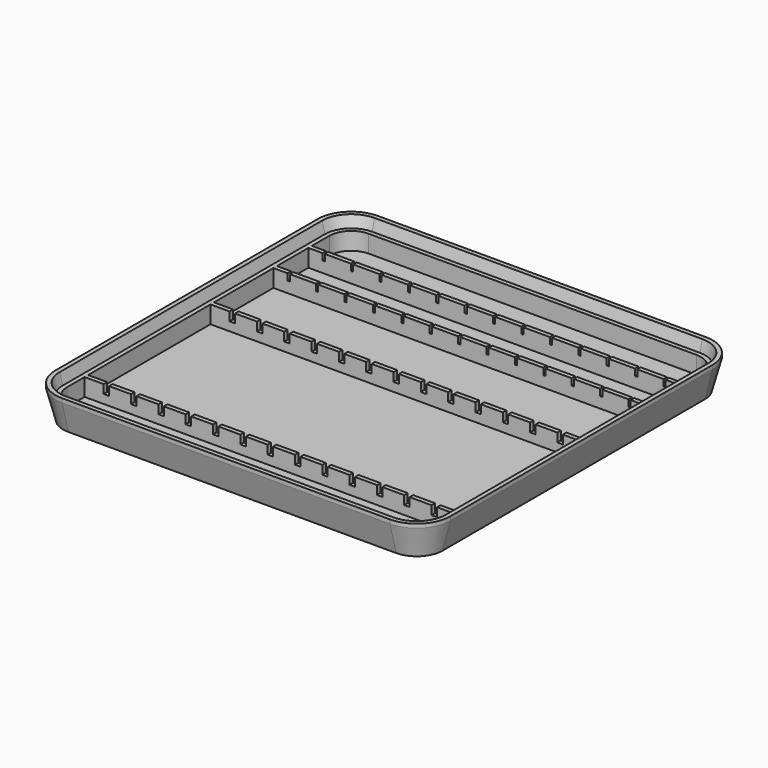
from build123d import *

# Parameters (mm, degrees)
PAD_DEPTH       = 2
SKETCH003_W     = 170
SKETCH003_H     = 2
PAD001_DEPTH    = 8
SKETCH004_W     = 2.5
SKETCH004_H     = 4
POCKET_DEPTH    = 76
SKETCH005_W     = 1
SKETCH005_H     = 3
POCKET001_DEPTH = 22


with BuildPart() as part:
    # AdditivePipe: sweep along a path in Sketch001
    with BuildLine(Plane.XY) as additivepipe_path:
        Line((-85, 75), (-85, -75))
        ThreePointArc((-85, -75), (-82.071068, -82.071068), (-75, -85))
        Line((-75, -85), (75, -85))
        ThreePointArc((75, -85), (82.071068, -82.071068), (85, -75))
        Line((85, -75), (85, 75))
        ThreePointArc((85, 75), (82.071068, 82.071068), (75, 85))
        Line((75, 85), (-75, 85))
        ThreePointArc((-75, 85), (-82.071068, 82.071068), (-85, 75))
    # Sketch → AdditivePipe (sweep)
    with BuildSketch(Plane.XZ):
        Polygon((85, 0), (86.8, 0), (90.339746, 13.210512), (90.339746, 15), (88.339746, 15), (87, 10), (85, 10), align=None)
    sweep(path=additivepipe_path.line)

    # Sketch002 → Pad (new body)
    with BuildSketch(Plane.XY):
        with BuildLine():
            Line((-85, 75), (-85, -75))
            ThreePointArc((-85, -75), (-82.071068, -82.071068), (-75, -85))
            Line((-75, -85), (75, -85))
            ThreePointArc((75, -85), (82.071068, -82.071068), (85, -75))
            Line((85, -75), (85, 75))
            ThreePointArc((85, 75), (82.071068, 82.071068), (75, 85))
            Line((75, 85), (-75, 85))
            ThreePointArc((-75, 85), (-82.071068, 82.071068), (-85, 75))
        make_face()
    extrude(amount=PAD_DEPTH)

    # Sketch003 → Pad001 (join)
    with BuildSketch(Plane.XY.offset(2)):
        with Locations((0, -64)):
            Rectangle(SKETCH003_W, SKETCH003_H)
        with Locations((0, 8)):
            Rectangle(SKETCH003_W, SKETCH003_H)
        with Locations((0, 44)):
            Rectangle(SKETCH003_W, SKETCH003_H)
        with Locations((0, 64)):
            Rectangle(SKETCH003_W, SKETCH003_H)
    extrude(amount=PAD001_DEPTH)

    # Sketch004 → Pocket (cut)
    with BuildSketch(Plane.XZ.offset(65)):
        with Locations((0, 8)):
            Rectangle(SKETCH004_W, SKETCH004_H)
        with Locations((12.5, 8)):
            Rectangle(SKETCH004_W, SKETCH004_H)
        with Locations((25, 8)):
            Rectangle(SKETCH004_W, SKETCH004_H)
        with Locations((37.5, 8)):
            Rectangle(SKETCH004_W, SKETCH004_H)
        with Locations((50, 8)):
            Rectangle(SKETCH004_W, SKETCH004_H)
        with Locations((62.5, 8)):
            Rectangle(SKETCH004_W, SKETCH004_H)
        with Locations((75, 8)):
            Rectangle(SKETCH004_W, SKETCH004_H)
        with Locations((-75, 8)):
            Rectangle(SKETCH004_W, SKETCH004_H)
        with Locations((-62.5, 8)):
            Rectangle(SKETCH004_W, SKETCH004_H)
        with Locations((-50, 8)):
            Rectangle(SKETCH004_W, SKETCH004_H)
        with Locations((-37.5, 8)):
            Rectangle(SKETCH004_W, SKETCH004_H)
        with Locations((-25, 8)):
            Rectangle(SKETCH004_W, SKETCH004_H)
        with Locations((-12.5, 8)):
            Rectangle(SKETCH004_W, SKETCH004_H)
    extrude(amount=-POCKET_DEPTH, mode=Mode.SUBTRACT)

    # Sketch005 → Pocket001 (cut)
    with BuildSketch(Plane.XZ.offset(-65)):
        with Locations((0, 8.5)):
            Rectangle(SKETCH005_W, SKETCH005_H)
        with Locations((13, 8.5)):
            Rectangle(SKETCH005_W, SKETCH005_H)
        with Locations((26, 8.5)):
            Rectangle(SKETCH005_W, SKETCH005_H)
        with Locations((39, 8.5)):
            Rectangle(SKETCH005_W, SKETCH005_H)
        with Locations((52, 8.5)):
            Rectangle(SKETCH005_W, SKETCH005_H)
        with Locations((65, 8.5)):
            Rectangle(SKETCH005_W, SKETCH005_H)
        with Locations((78, 8.5)):
            Rectangle(SKETCH005_W, SKETCH005_H)
        with Locations((-78, 8.5)):
            Rectangle(SKETCH005_W, SKETCH005_H)
        with Locations((-65, 8.5)):
            Rectangle(SKETCH005_W, SKETCH005_H)
        with Locations((-52, 8.5)):
            Rectangle(SKETCH005_W, SKETCH005_H)
        with Locations((-39, 8.5)):
            Rectangle(SKETCH005_W, SKETCH005_H)
        with Locations((-26, 8.5)):
            Rectangle(SKETCH005_W, SKETCH005_H)
        with Locations((-13, 8.5)):
            Rectangle(SKETCH005_W, SKETCH005_H)
    extrude(amount=POCKET001_DEPTH, mode=Mode.SUBTRACT)


solid = part.part
